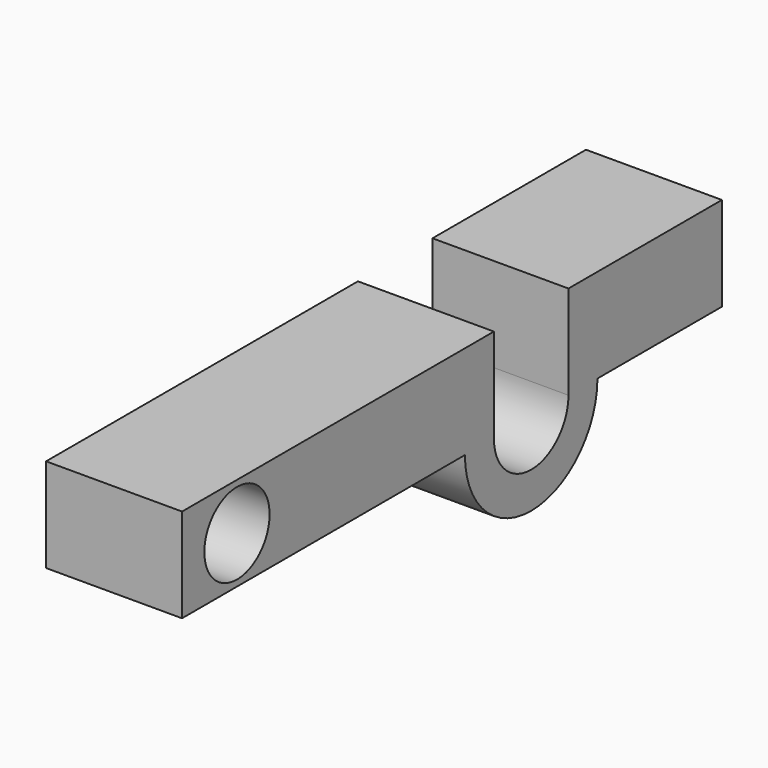
from build123d import *

# Parameters (mm, degrees)
F1_DEPTH = 25.4
F2_R     = 7.62
F3_DEPTH = 25.401


with BuildPart() as f1:
    # F0 (on Right) → F1 (new body)
    with BuildSketch(Plane.YZ):
        Polygon((0, 21.297626), (-66.051424, 21.297626), (-66.051424, 3.741475), (0, 3.741475), (6.763435, 3.741475), (6.763435, 8.634172), (6.763435, 21.297626), align=None)
        Polygon((24.175686, 3.741475), (30.939121, 3.741475), (60.007501, 3.741475), (60.007501, 21.297626), (24.175686, 21.297626), align=None)
        with BuildLine():
            Line((6.763435, 3.741475), (0, 3.741475))
            ThreePointArc((0, 3.741475), (15.46956, -11.728086), (30.939121, 3.741475))
            Line((30.939121, 3.741475), (24.175686, 3.741475))
            ThreePointArc((24.175686, 3.741475), (15.46956, -4.964651), (6.763435, 3.741475))
        make_face()
    extrude(amount=F1_DEPTH)

    # F2 (on face) → F3 (cut, through all)
    with BuildSketch(Plane(origin=(0, 0, 0), x_dir=(0, -1, 0), z_dir=(-1, 0, 0))):
        with Locations((53.227056, 12.519551)):
            Circle(F2_R)
    extrude(amount=-F3_DEPTH, mode=Mode.SUBTRACT)


solid = f1.part
